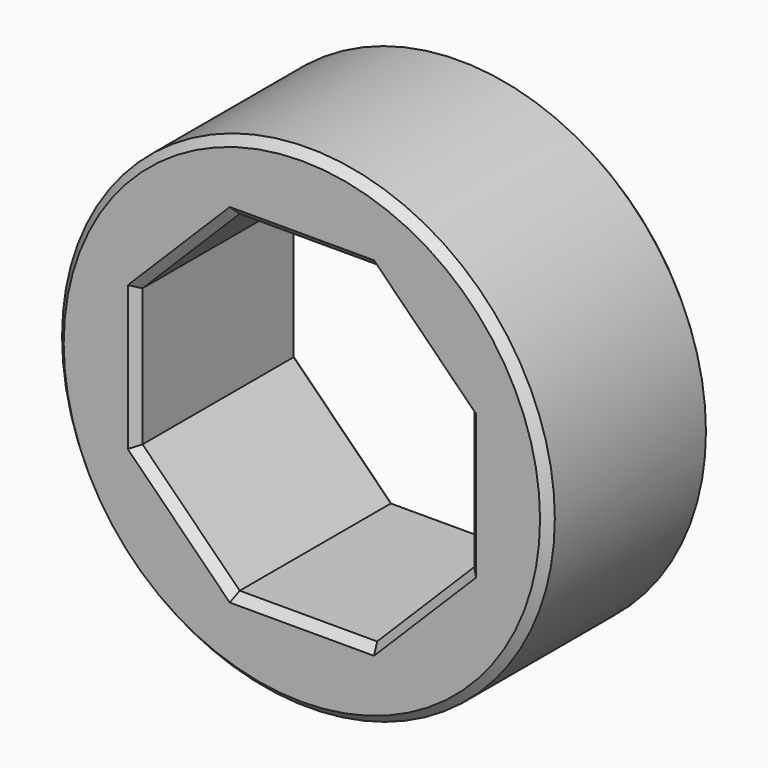
from build123d import *

# Parameters (mm, degrees)
F0_R     = 15
F1_DEPTH = 12.5
F2_SIZE  = 0.5


with BuildPart() as f1:
    # F0 (on Front) → F1 (new body)
    with BuildSketch(Plane.XZ):
        Circle(F0_R)
        Polygon((-4.183557, -10.1), (-10.1, -4.183557), (-10.1, 4.183557), (-4.183557, 10.1), (4.183557, 10.1), (10.1, 4.183557), (10.1, -4.183557), (4.183557, -10.1), align=None, mode=Mode.SUBTRACT)
    extrude(amount=F1_DEPTH)

    # F2
    f2_edges = [f1.edges().sort_by_distance(p)[0] for p in [
        (-15, -12.5, 0),
        (-7.141778, -12.5, -7.141778),
        (-10.1, -12.5, 0),
        (-7.141778, -12.5, 7.141778),
        (0, -12.5, 10.1),
        (7.141778, -12.5, 7.141778),
        (10.1, -12.5, 0),
        (7.141778, -12.5, -7.141778),
        (0, -12.5, -10.1),
        (-15, 0, 0),
        (-7.141778, 0, -7.141778),
        (-10.1, 0, 0),
        (-7.141778, 0, 7.141778),
        (0, 0, 10.1),
        (7.141778, 0, 7.141778),
        (10.1, 0, 0),
        (7.141778, 0, -7.141778),
        (0, 0, -10.1),
    ]]
    chamfer(f2_edges, length=F2_SIZE)


solid = f1.part
